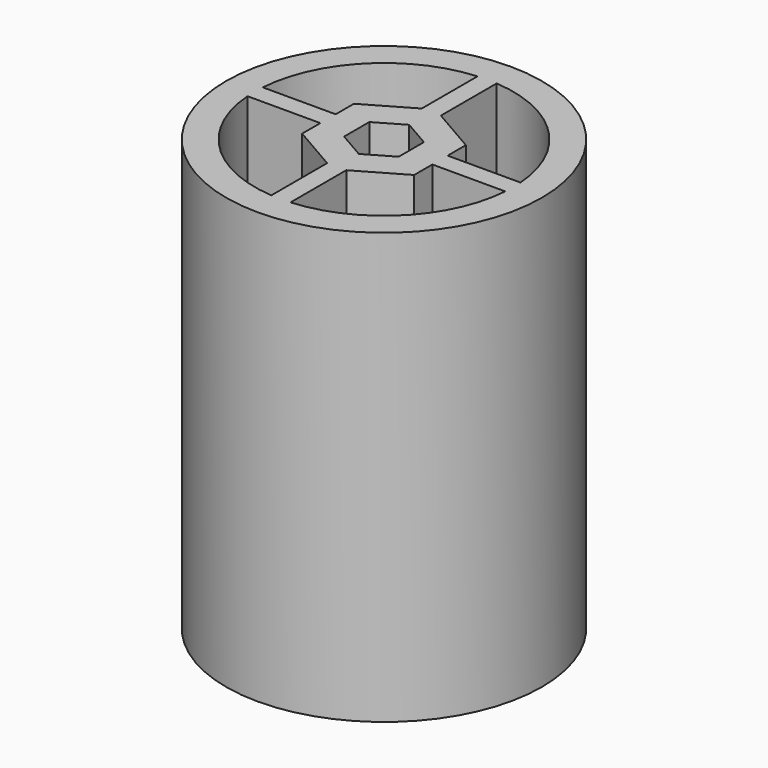
from build123d import *

# Parameters (mm, degrees)
F0_R     = 16.5
F1_DEPTH = 45
F3_DEPTH = 45


with BuildPart() as f1:
    # F0 (on Top) → F1 (new body)
    with BuildSketch(Plane.XY):
        Circle(F0_R)
    extrude(amount=F1_DEPTH)

    # F2 (on face) → F3 (cut)
    with BuildSketch(Plane(origin=(0, 0, 0), x_dir=(1, 0, 0), z_dir=(0, 0, -1))):
        with BuildLine():
            Line((-1, -6.177648), (-5.85, -3.377499))
            Line((-5.85, -3.377499), (-5.85, -1))
            Line((-5.85, -1), (-13.462912, -1))
            ThreePointArc((-13.462912, -1), (-9.545942, -9.545942), (-1, -13.462912))
            Line((-1, -13.462912), (-1, -6.177648))
        make_face()
        with BuildLine():
            Line((5.85, -3.377499), (1, -6.177648))
            Line((1, -6.177648), (1, -13.462912))
            ThreePointArc((1, -13.462912), (9.545942, -9.545942), (13.462912, -1))
            Line((13.462912, -1), (5.85, -1))
            Line((5.85, -1), (5.85, -3.377499))
        make_face()
        with BuildLine():
            Line((-13.462912, 1), (-5.85, 1))
            Line((-5.85, 1), (-5.85, 3.377499))
            Line((-5.85, 3.377499), (-1, 6.177648))
            Line((-1, 6.177648), (-1, 13.462912))
            ThreePointArc((-1, 13.462912), (-9.545942, 9.545942), (-13.462912, 1))
        make_face()
        with BuildLine():
            ThreePointArc((13.462912, 1), (9.545942, 9.545942), (1, 13.462912))
            Line((1, 13.462912), (1, 6.177648))
            Line((1, 6.177648), (5.85, 3.377499))
            Line((5.85, 3.377499), (5.85, 1))
            Line((5.85, 1), (13.462912, 1))
        make_face()
        Polygon((2.85, -1.645448), (2.85, 1.645448), (0, 3.290897), (-2.85, 1.645448), (-2.85, -1.645448), (0, -3.290897), align=None)
    extrude(amount=-F3_DEPTH, mode=Mode.SUBTRACT)


solid = f1.part
